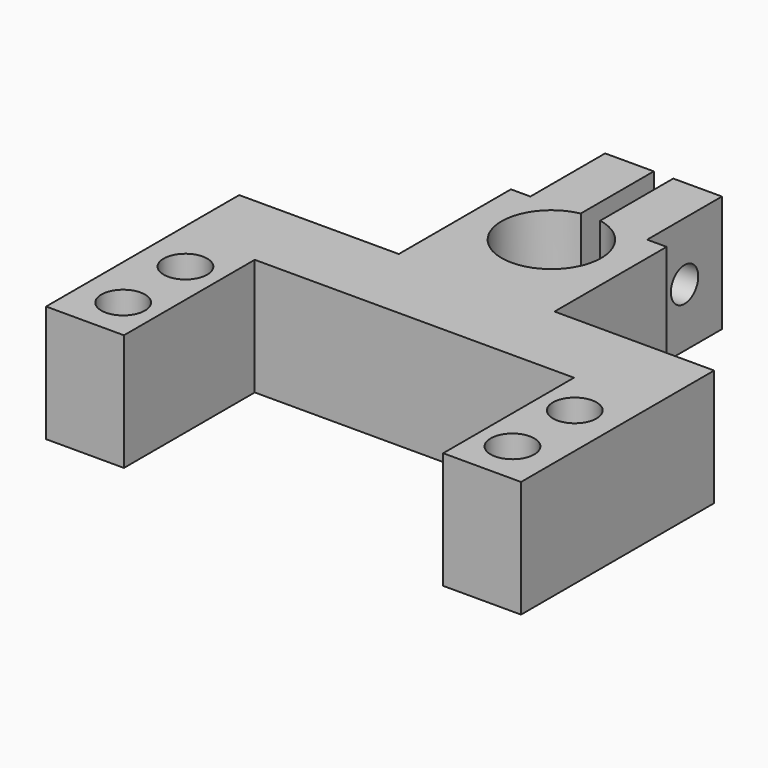
from build123d import *

# Parameters (mm, degrees)
PAD_DEPTH       = 15
SKETCH001_R     = 2.8
POCKET_DEPTH    = 8.2
SKETCH002_W     = 20
SKETCH002_H     = 15
PAD001_DEPTH    = 30
POCKET001_DEPTH = 15.001
SKETCH004_R     = 2.2
HOLE_DEPTH      = 23.678107
HOLE_TIPS_R     = 2.2
SKETCH005_W     = 2.5
SKETCH005_H     = 12
POCKET002_DEPTH = 15.001


with BuildPart() as part:
    # Sketch → Pad (new body)
    with BuildSketch(Plane.XY):
        Polygon((-30.5, -31), (-30.5, 0), (30.5, 0), (30.5, -31), (20.5, -31), (20.5, -10), (-20.5, -10), (-20.5, -31), align=None)
    extrude(amount=PAD_DEPTH)

    # Sketch001 (on Face10 of Pad) → Pocket (cut)
    with BuildSketch(Plane.XY.offset(15)):
        with Locations((-25, -15.5)):
            Circle(SKETCH001_R)
        with Locations((-25, -25.5)):
            Circle(SKETCH001_R)
        with Locations((25, -15.5)):
            Circle(SKETCH001_R)
        with Locations((25, -25.5)):
            Circle(SKETCH001_R)
    extrude(amount=-POCKET_DEPTH, mode=Mode.SUBTRACT)

    # Sketch002 (on Face3 of Pocket) → Pad001 (join)
    with BuildSketch(Plane(origin=(0, 0, 0), x_dir=(-1, 0, 0), z_dir=(0, 1, 0))):
        with Locations((0, 7.5)):
            Rectangle(SKETCH002_W, SKETCH002_H)
    extrude(amount=PAD001_DEPTH)

    # Sketch003 (on Face14 of Pad001) → Pocket001 (cut, through all)
    with BuildSketch(Plane.XY.offset(15)):
        with BuildLine():
            ThreePointArc((-1.25, 18.276743), (0, 5.6), (1.25, 18.276743))
            Line((1.25, 30), (1.25, 18.276743))
            Line((1.25, 30), (-1.25, 30))
            Line((-1.25, 18.276743), (-1.25, 30))
        make_face()
    extrude(amount=-POCKET001_DEPTH, mode=Mode.SUBTRACT)

    # Sketch004 (on Face24 of Pocket001) → Hole (cut)
    with BuildSketch(Plane.YZ.offset(10)):
        with Locations((24, 7.5)):
            Circle(SKETCH004_R)
    extrude(amount=-HOLE_DEPTH, mode=Mode.SUBTRACT)

    # Hole tips → Hole tip 1 section 0
    with BuildSketch(Plane.YZ.offset(-13.678107), mode=Mode.PRIVATE) as hole_tip_1_s0:
        with Locations((24, 7.5)):
            Circle(HOLE_TIPS_R)
    loft([hole_tip_1_s0.sketch, Vertex(-15, 24, 7.5)], mode=Mode.SUBTRACT)

    # Sketch005 (on Face14 of Hole) → Pocket002 (cut, through all)
    with BuildSketch(Plane.XY.offset(15)):
        with Locations((-8.75, 24)):
            Rectangle(SKETCH005_W, SKETCH005_H)
        with Locations((8.75, 24)):
            Rectangle(SKETCH005_W, SKETCH005_H)
    extrude(amount=-POCKET002_DEPTH, mode=Mode.SUBTRACT)


solid = part.part
